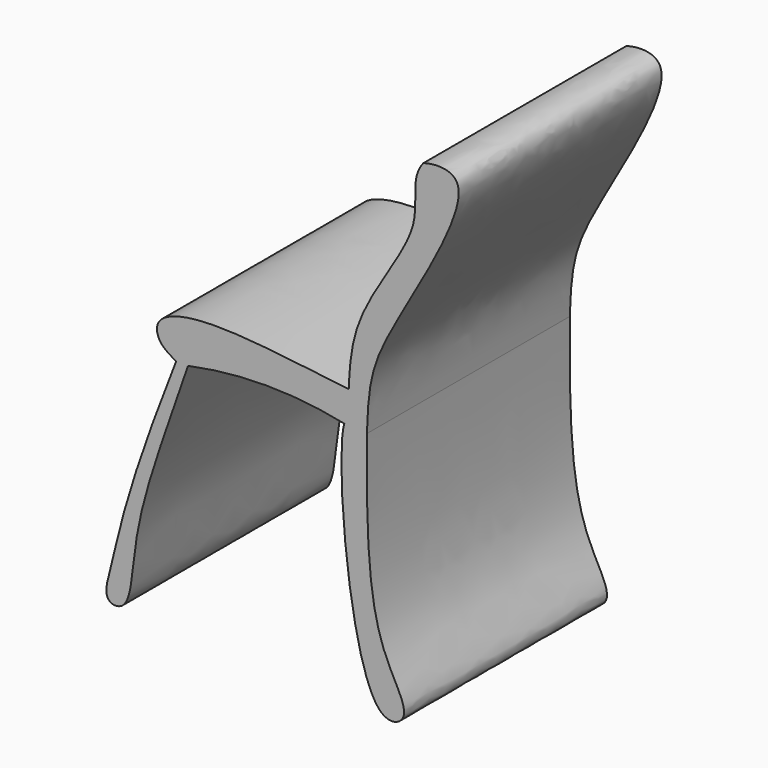
from build123d import *

# Parameters (mm, degrees)
F1_DEPTH = 50.8


with BuildPart() as f1:
    # F0 (on Front) → F1 (new body)
    with BuildSketch(Plane.XZ):
        with BuildLine():
            ThreePointArc((-30.6765455753, 28.0986782163), (-15.0162228965, 29.7452033137), (0.6440997822, 28.0986782163))
            add(Edge.make_bspline(
                [(1.5163676601, 34.4759604075), (1.3869349369, 31.6565663825), (1.3008462887, 29.3517405427), (0.6440997822, 28.0986782163)],
                knots=[0.8444446613, 0.8444446613, 0.8444446613, 0.8444446613, 1, 1, 1, 1], degree=3))
            add(Edge.make_bspline(
                [(-33.0604575574, 28.0986782163), (-34.2883055715, 28.8260766756), (-36.6460688131, 30.1561152276), (-37.5409835416, 35.0124955383), (-26.312362271, 38.3626680355), (-8.2439742982, 35.5234444141), (1.5163676601, 34.4759604075)],
                knots=[0, 0, 0, 0, 0.1638956679, 0.3114401707, 0.5592132333, 1, 1, 1, 1], degree=3))
            Line((-33.0604575574, 28.0986782163), (-30.6765455753, 28.0986782163))
        make_face()
        with BuildLine():
            Line((0.6440997822, 28.0986782163), (5.1563763991, 27.8099700809))
            add(Edge.make_bspline(
                [(5.1563763991, 27.8099700809), (5.4586743936, 37.5154316425), (7.3716808113, 44.8774137635), (30.1169750366, 80.5269535521), (18.4786193916, 79.8399214902), (16.444157809, 79.1539549828)],
                knots=[0, 0, 0, 0, 0.3566717951, 0.7967279382, 1, 1, 1, 1], degree=3))
            add(Edge.make_bspline(
                [(16.444157809, 79.1539549828), (13.7823147788, 75.7822904402), (18.0040875413, 66.9025286791), (2.3212527207, 50.2242581268), (1.6613789949, 37.6346986361), (1.5163676601, 34.4759604075)],
                knots=[0, 0, 0, 0, 0.267756448, 0.670166575, 0.8444446613, 0.8444446613, 0.8444446613, 0.8444446613], degree=3))
            add(Edge.make_bspline(
                [(1.5163676601, 34.4759604075), (1.3869349369, 31.6565663825), (1.3008462887, 29.3517405427), (0.6440997822, 28.0986782163)],
                knots=[0.8444446613, 0.8444446613, 0.8444446613, 0.8444446613, 1, 1, 1, 1], degree=3))
        make_face()
        with BuildLine():
            add(Edge.make_bspline(
                [(5.1563763991, 27.8099700809), (4.965278858, 6.2349902485), (6.2854105521, -8.1233598721), (14.9368495192, -20.17512535), (2.4275486283, -24.6078630444), (-1.2666333774, 22.1120019175), (0.6440997822, 28.0986782163)],
                knots=[0, 0, 0, 0, 0.3378333996, 0.5043892678, 0.6225895984, 1, 1, 1, 1], degree=3))
            Line((5.1563763991, 27.8099700809), (0.6440997822, 28.0986782163))
        make_face()
        with BuildLine():
            add(Edge.make_bspline(
                [(-30.6765455753, 28.0986782163), (-35.0591212267, 15.1826643879), (-42.0553619518, -2.5246799811), (-41.7981058489, -19.3812266906), (-48.0407575609, -18.8527696176), (-44.6736883652, -7.8929412217), (-43.2030029314, 2.2567799234), (-33.0604575574, 28.0986782163)],
                knots=[0, 0, 0, 0, 0.2922745969, 0.4719916178, 0.5550623387, 0.6802151645, 1, 1, 1, 1], degree=3))
            Line((-30.6765455753, 28.0986782163), (-33.0604575574, 28.0986782163))
        make_face()
    extrude(amount=F1_DEPTH)


solid = f1.part
